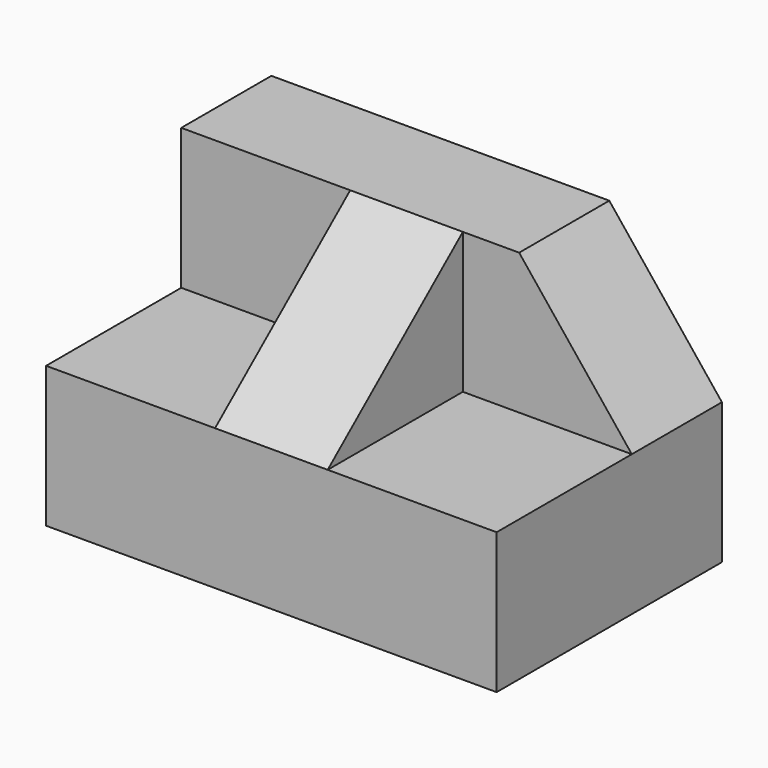
from build123d import *

# Parameters (mm, degrees)
F0_W      = 50.8
F0_H      = 31.75
F1_DEPTH  = 31.75
F3_DEPTH  = 12.7
F4_DEPTH  = 19.05
F6_DEPTH  = 19.05
F8_DEPTH  = 31.75
F10_DEPTH = 19.05


with BuildPart() as f1:
    # F0 (on Front) → F1 (new body)
    with BuildSketch(Plane.XZ):
        with Locations((25.4, 15.875)):
            Rectangle(F0_W, F0_H)
    extrude(amount=F1_DEPTH)

    # F2 (on face) → F3 (cut)
    with BuildSketch(Plane.XZ.offset(31.75)):
        Polygon((50.8, 31.75), (38.1, 31.75), (50.8, 15.875), align=None)
    extrude(amount=-F3_DEPTH, mode=Mode.SUBTRACT)

    # F4 (cut): a face of the model
    f4_faces = [f1.faces().sort_by_distance(p)[0] for p in [
        (46.5666666667, -19.05, 26.4583333333),
    ]]
    extrude(f4_faces, amount=-F4_DEPTH, mode=Mode.SUBTRACT)

    # F5 (on face) → F6 (cut)
    with BuildSketch(Plane.XZ.offset(31.75)):
        Polygon((38.1, 31.75), (31.75, 31.75), (31.75, 15.875), (50.8, 15.875), align=None)
    extrude(amount=-F6_DEPTH, mode=Mode.SUBTRACT)

    # F7 (on face) → F8 (cut)
    with BuildSketch(Plane.YZ.offset(31.75)):
        Polygon((-31.75, 15.875), (-12.7, 31.75), (-31.75, 31.75), align=None)
    extrude(amount=-F8_DEPTH, mode=Mode.SUBTRACT)

    # F9 (on face) → F10 (cut)
    with BuildSketch(Plane(origin=(0, 0, 0), x_dir=(0, -1, 0), z_dir=(-1, 0, 0))):
        Polygon((31.75, 15.875), (12.7, 31.75), (12.7, 15.875), align=None)
    extrude(amount=-F10_DEPTH, mode=Mode.SUBTRACT)


solid = f1.part
